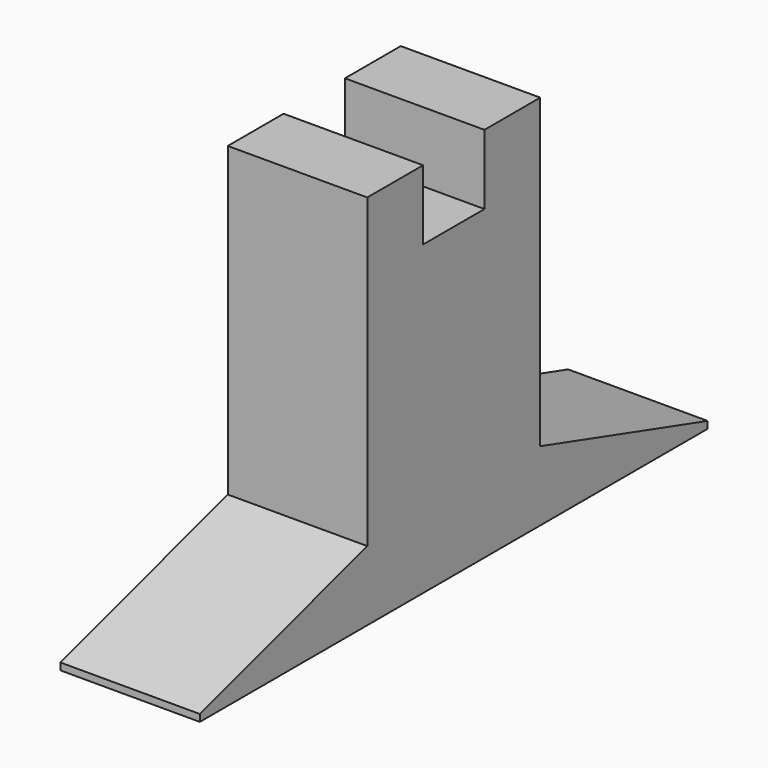
from build123d import *

# Parameters (mm, degrees)
F0_W     = 20
F0_H     = 31
F1_DEPTH = 44
F2_W     = 20
F2_H     = 10
F3_DEPTH = 10
F4_W     = 20
F4_H     = 10
F5_DEPTH = 30
F6_W     = 20
F6_H     = 10
F7_DEPTH = 30
F9_DEPTH = 20


with BuildPart() as f1:
    # F0 (on Top) → F1 (new body)
    with BuildSketch(Plane.XY):
        with Locations((10, 15.5)):
            Rectangle(F0_W, F0_H)
    extrude(amount=F1_DEPTH)

    # F2 (on face) → F3 (join)
    with BuildSketch(Plane.XY.offset(44)):
        with Locations((10, 26)):
            Rectangle(F2_W, F2_H)
        with Locations((10, 5)):
            Rectangle(F2_W, F2_H)
    extrude(amount=F3_DEPTH)

    # F4 (on face) → F5 (join)
    with BuildSketch(Plane.XZ):
        with Locations((10, 5)):
            Rectangle(F4_W, F4_H)
    extrude(amount=F5_DEPTH)

    # F6 (on face) → F7 (join)
    with BuildSketch(Plane(origin=(0, 31, 0), x_dir=(-1, 0, 0), z_dir=(0, 1, 0))):
        with Locations((-10, 5)):
            Rectangle(F6_W, F6_H)
    extrude(amount=F7_DEPTH)

    # F8 (on face) → F9 (cut)
    with BuildSketch(Plane.YZ.offset(20)):
        Polygon((-30, 1), (0, 10), (-30, 10), align=None)
        Polygon((31, 10), (61, 1), (61, 10), align=None)
    extrude(amount=-F9_DEPTH, mode=Mode.SUBTRACT)


solid = f1.part
